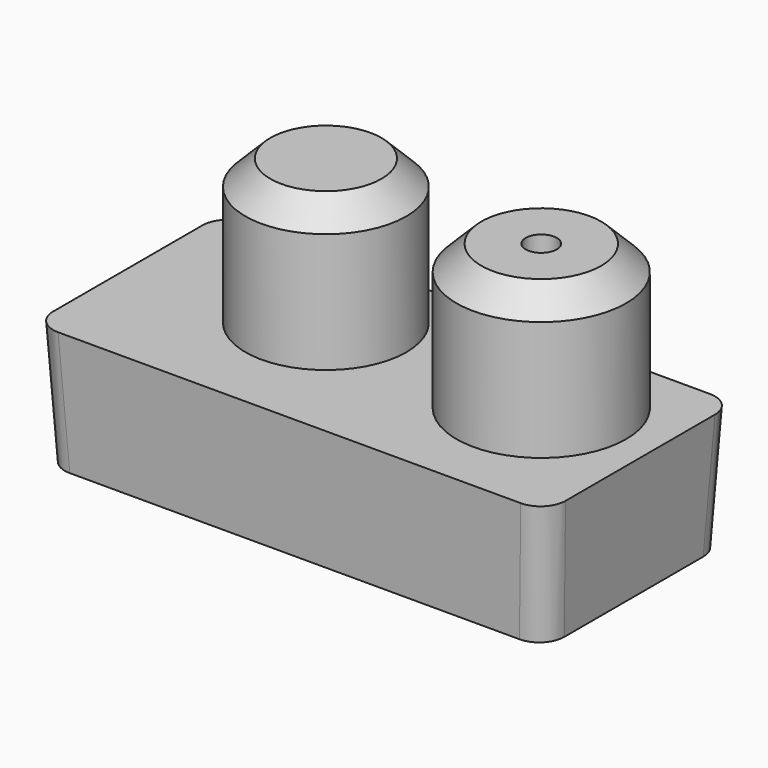
from build123d import *

# Parameters (mm, degrees)
F0_W     = 101.8161997199
F0_H     = 45.5561242998
F1_DEPTH = 25.4
F1_TAPER = -3
F2_R     = 16.4012411608
F2_R_2   = 17.2999496767
F3_DEPTH = 29.4599
F4_R     = 5.08
F5_SIZE  = 5.08
F7_D     = 6.35


with BuildPart() as f1:
    # F0 (on Top) → F1 (new body)
    with BuildSketch(Plane.XY):
        with Locations((-50.90809986, 22.7780621499)):
            Rectangle(F0_W, F0_H)
    extrude(amount=F1_DEPTH, taper=F1_TAPER)

    # F2 (on face) → F3 (join)
    with BuildSketch(Plane.XY.offset(25.4)):
        with Locations((-66.870637238, 27.9236733913)):
            Circle(F2_R)
        with Locations((-21.7265021056, 26.3802520931)):
            Circle(F2_R_2)
    extrude(amount=F3_DEPTH)

    # F4
    f4_edges = [f1.edges().sort_by_distance(p)[0] for p in [
        (-102.481779, -0.665579, 12.7),
        (0.665579, -0.665579, 12.7),
        (0.665579, 46.221703, 12.7),
        (-102.481779, 46.221703, 12.7),
    ]]
    fillet(f4_edges, radius=F4_R)

    # F5
    f5_edges = [f1.edges().sort_by_distance(p)[0] for p in [
        (-39.026452, 26.380252, 54.8599),
        (-83.271878, 27.923673, 54.8599),
    ]]
    chamfer(f5_edges, length=F5_SIZE)

    # F7 (through all)
    with Locations(Plane.XY.offset(54.8599)):
        with Locations((-21.7265021056, 26.3802520931)):
            Hole(F7_D / 2)


solid = f1.part
